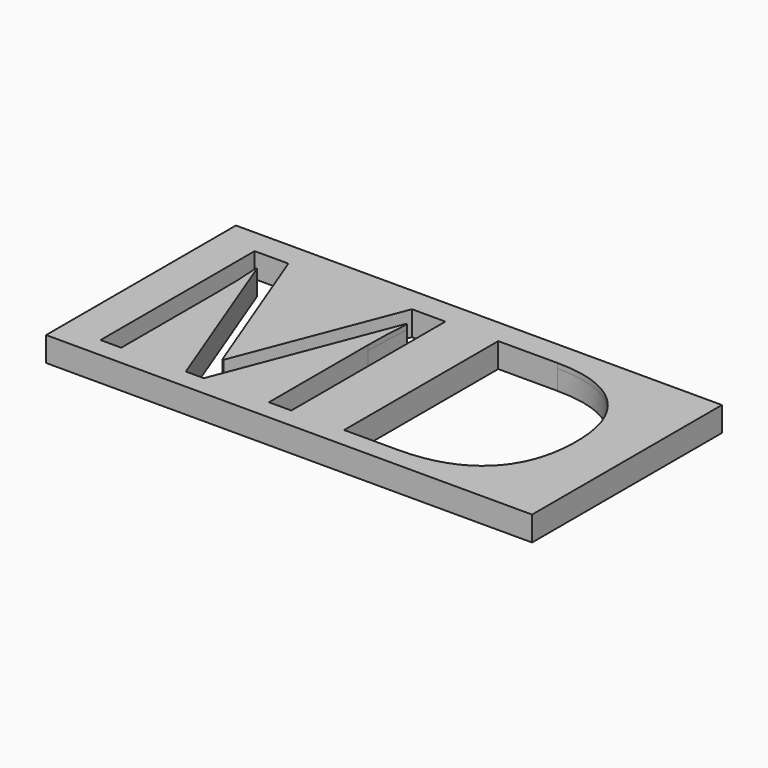
from build123d import *

# Parameters (mm, degrees)
F0_W     = 197.4307820201
F0_H     = 96.3935032487
F1_DEPTH = 8
F2_DEPTH = 2


with BuildPart() as f1:
    # F0 (on Top) → F1 (new body)
    with BuildSketch(Plane.XY):
        with Locations((-26.8810577691, -12.8519237041)):
            Rectangle(F0_W, F0_H)
        with BuildLine():
            Line((-67.9943013383, -52.9402904212), (-75.3238824077, -52.9402904212))
            Line((-75.3238824077, -52.9402904212), (-101.8679259998, 16.4167267067))
            Line((-101.8679259998, 16.4167267067), (-102.2960557352, 16.4167267067))
            add(Edge.make_bspline(
                [(-102.2960557352, 16.4167267067), (-101.5425474009, 8.1795105984), (-101.5425474009, -3.1744899833)],
                knots=[0, 0, 0, 1, 1, 1], degree=2))
            Line((-101.5425474009, -3.1744899833), (-101.5425474009, -52.9402904212))
            Line((-101.5425474009, -52.9402904212), (-109.9510154034, -52.9402904212))
            Line((-109.9510154034, -52.9402904212), (-109.9510154034, 25.3047000127))
            Line((-109.9510154034, 25.3047000127), (-96.2508638719, 25.3047000127))
            Line((-96.2508638719, 25.3047000127), (-71.4707147894, -39.2401388898))
            Line((-71.4707147894, -39.2401388898), (-71.0425850541, -39.2401388898))
            Line((-71.0425850541, -39.2401388898), (-46.0569336986, 25.3047000127))
            Line((-46.0569336986, 25.3047000127), (-32.4595333037, 25.3047000127))
            Line((-32.4595333037, 25.3047000127), (-32.4595333037, -52.9402904212))
            Line((-32.4595333037, -52.9402904212), (-41.5530088827, -52.9402904212))
            Line((-41.5530088827, -52.9402904212), (-41.5530088827, -2.5237327855))
            add(Edge.make_bspline(
                [(-41.5530088827, -2.5237327855), (-41.5530088827, 6.1416130581), (-40.7995005484, 16.3139755702)],
                knots=[0, 0, 0, 1, 1, 1], degree=2))
            Line((-40.7995005484, 16.3139755702), (-41.2276302838, 16.3139755702))
            Line((-41.2276302838, 16.3139755702), (-67.9943013383, -52.9402904212))
        make_face(mode=Mode.SUBTRACT)
        with BuildLine():
            add(Edge.make_bspline(
                [(41.3414704773, 15.1922756635), (51.4538948264, 5.0798513144), (51.4538948264, -13.0728494648)],
                knots=[0, 0, 0, 1, 1, 1], degree=2))
            add(Edge.make_bspline(
                [(51.4538948264, -13.0728494648), (51.4538948264, -32.4414386923), (40.939028526, -42.6908645568)],
                knots=[0, 0, 0, 1, 1, 1], degree=2))
            add(Edge.make_bspline(
                [(40.939028526, -42.6908645568), (30.4241622256, -52.9402904212), (10.678818831, -52.9402904212)],
                knots=[0, 0, 0, 1, 1, 1], degree=2))
            Line((10.678818831, -52.9402904212), (-11.0016709675, -52.9402904212))
            Line((-11.0016709675, -52.9402904212), (-11.0016709675, 25.3047000127))
            Line((-11.0016709675, 25.3047000127), (12.9735942125, 25.3047000127))
            add(Edge.make_bspline(
                [(12.9735942125, 25.3047000127), (31.2290461281, 25.3047000127), (41.3414704773, 15.1922756635)],
                knots=[0, 0, 0, 1, 1, 1], degree=2))
        make_face(mode=Mode.SUBTRACT)
    extrude(amount=-F1_DEPTH)

    # F0 (on Top) → F2 (join)
    with BuildSketch(Plane.XY):
        with Locations((-26.8810577691, -12.8519237041)):
            Rectangle(F0_W, F0_H)
        with BuildLine():
            Line((-67.9943013383, -52.9402904212), (-75.3238824077, -52.9402904212))
            Line((-75.3238824077, -52.9402904212), (-101.8679259998, 16.4167267067))
            Line((-101.8679259998, 16.4167267067), (-102.2960557352, 16.4167267067))
            add(Edge.make_bspline(
                [(-102.2960557352, 16.4167267067), (-101.5425474009, 8.1795105984), (-101.5425474009, -3.1744899833)],
                knots=[0, 0, 0, 1, 1, 1], degree=2))
            Line((-101.5425474009, -3.1744899833), (-101.5425474009, -52.9402904212))
            Line((-101.5425474009, -52.9402904212), (-109.9510154034, -52.9402904212))
            Line((-109.9510154034, -52.9402904212), (-109.9510154034, 25.3047000127))
            Line((-109.9510154034, 25.3047000127), (-96.2508638719, 25.3047000127))
            Line((-96.2508638719, 25.3047000127), (-71.4707147894, -39.2401388898))
            Line((-71.4707147894, -39.2401388898), (-71.0425850541, -39.2401388898))
            Line((-71.0425850541, -39.2401388898), (-46.0569336986, 25.3047000127))
            Line((-46.0569336986, 25.3047000127), (-32.4595333037, 25.3047000127))
            Line((-32.4595333037, 25.3047000127), (-32.4595333037, -52.9402904212))
            Line((-32.4595333037, -52.9402904212), (-41.5530088827, -52.9402904212))
            Line((-41.5530088827, -52.9402904212), (-41.5530088827, -2.5237327855))
            add(Edge.make_bspline(
                [(-41.5530088827, -2.5237327855), (-41.5530088827, 6.1416130581), (-40.7995005484, 16.3139755702)],
                knots=[0, 0, 0, 1, 1, 1], degree=2))
            Line((-40.7995005484, 16.3139755702), (-41.2276302838, 16.3139755702))
            Line((-41.2276302838, 16.3139755702), (-67.9943013383, -52.9402904212))
        make_face(mode=Mode.SUBTRACT)
        with BuildLine():
            add(Edge.make_bspline(
                [(41.3414704773, 15.1922756635), (51.4538948264, 5.0798513144), (51.4538948264, -13.0728494648)],
                knots=[0, 0, 0, 1, 1, 1], degree=2))
            add(Edge.make_bspline(
                [(51.4538948264, -13.0728494648), (51.4538948264, -32.4414386923), (40.939028526, -42.6908645568)],
                knots=[0, 0, 0, 1, 1, 1], degree=2))
            add(Edge.make_bspline(
                [(40.939028526, -42.6908645568), (30.4241622256, -52.9402904212), (10.678818831, -52.9402904212)],
                knots=[0, 0, 0, 1, 1, 1], degree=2))
            Line((10.678818831, -52.9402904212), (-11.0016709675, -52.9402904212))
            Line((-11.0016709675, -52.9402904212), (-11.0016709675, 25.3047000127))
            Line((-11.0016709675, 25.3047000127), (12.9735942125, 25.3047000127))
            add(Edge.make_bspline(
                [(12.9735942125, 25.3047000127), (31.2290461281, 25.3047000127), (41.3414704773, 15.1922756635)],
                knots=[0, 0, 0, 1, 1, 1], degree=2))
        make_face(mode=Mode.SUBTRACT)
    extrude(amount=F2_DEPTH)


solid = f1.part
